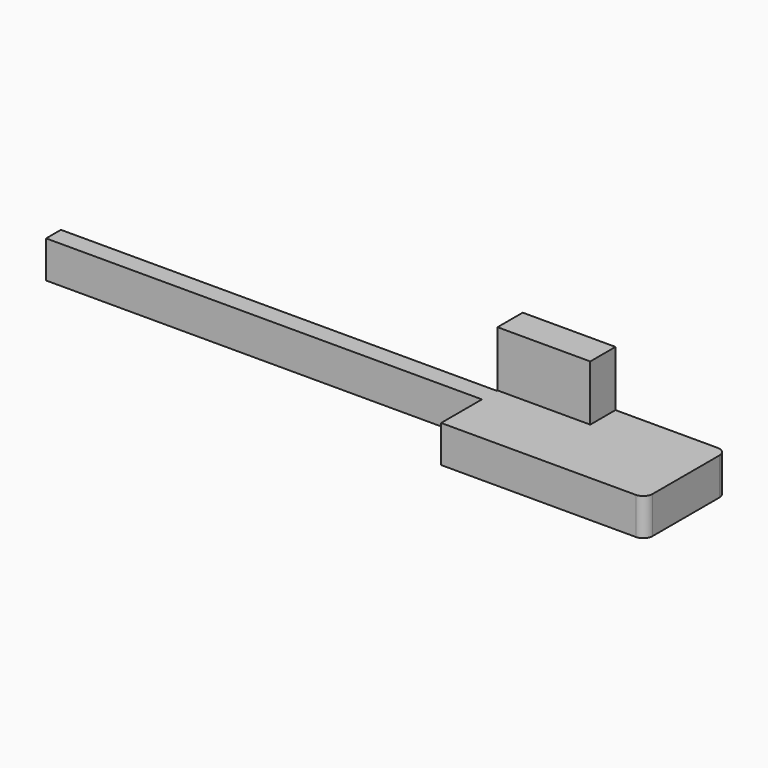
from build123d import *

# Parameters (mm, degrees)
F0_W     = 47
F0_H     = 2
F0_W_2   = 10
F0_H_2   = 3.4
F1_DEPTH = 4
F2_DEPTH = 10
F3_R     = 1


with BuildPart() as f1:
    # F0 (on Top) → F1 (new body)
    with BuildSketch(Plane.XY):
        with Locations((-12.59553, 9.557682)):
            Rectangle(F0_W, F0_H)
        with Locations((-12.59553, 9.557682)):
            Rectangle(F0_W, F0_H)
        Polygon((10.90447, 10.657682), (10.90447, 10.557682), (10.90447, 8.557682), (10.90447, 3.057682), (32.90447, 3.057682), (32.90447, 14.057682), (20.90447, 14.057682), (20.90447, 10.657682), align=None)
        with Locations((15.90447, 12.357682)):
            Rectangle(F0_W_2, F0_H_2)
        Polygon((10.90447, 10.657682), (10.90447, 10.557682), (10.90447, 8.557682), (10.90447, 3.057682), (32.90447, 3.057682), (32.90447, 14.057682), (20.90447, 14.057682), (20.90447, 10.657682), align=None)
    extrude(amount=F1_DEPTH)

    # F0 (on Top) → F2 (join)
    with BuildSketch(Plane.XY):
        with Locations((15.90447, 12.357682)):
            Rectangle(F0_W_2, F0_H_2)
    extrude(amount=F2_DEPTH)

    # F3
    f3_edges = [f1.edges().sort_by_distance(p)[0] for p in [
        (32.90447, 3.057682, 2),
        (32.90447, 14.057682, 2),
    ]]
    fillet(f3_edges, radius=F3_R)


solid = f1.part
